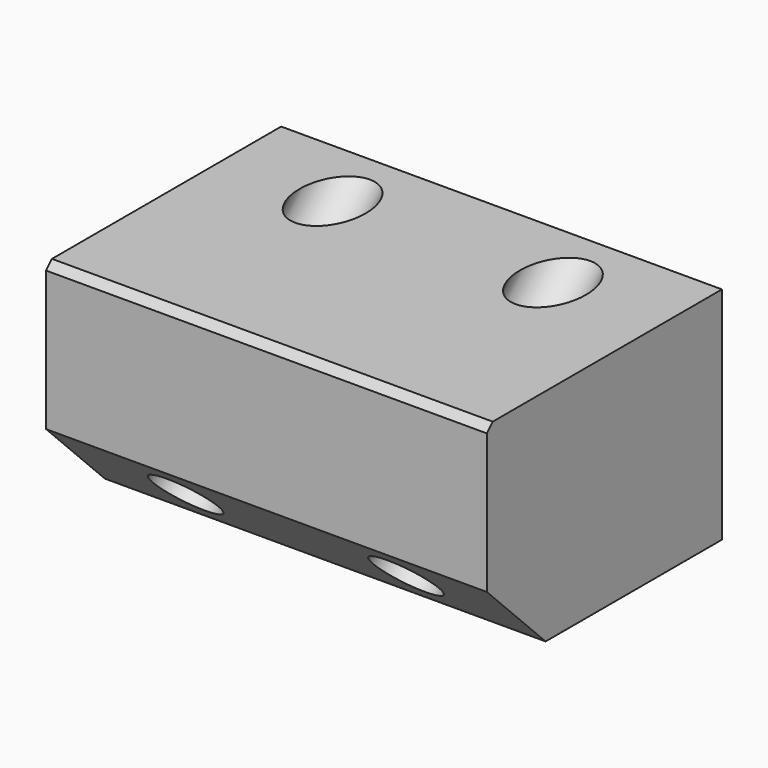
from build123d import *

# Parameters (mm, degrees)
F0_W     = 60
F0_H     = 40
F1_DEPTH = 30
F2_SIZE  = 10
F4_D     = 9
F5_SIZE  = 1


with BuildPart() as f1:
    # F0 (on Top) → F1 (new body)
    with BuildSketch(Plane.XY):
        with Locations((30, 20)):
            Rectangle(F0_W, F0_H)
    extrude(amount=-F1_DEPTH)

    # F2
    f2_edges = [f1.edges().sort_by_distance(p)[0] for p in [
        (30, 0, -30),
    ]]
    chamfer(f2_edges, length=F2_SIZE)

    # F4 (through all)
    with Locations(Plane(origin=(0, -10, -10), x_dir=(1, 0, 0), z_dir=(0, -0.7071067812, -0.7071067812))):
        with Locations((15, -21.2132034356), (45, -21.2132034356)):
            Hole(F4_D / 2)

    # F5
    f5_edges = [f1.edges().sort_by_distance(p)[0] for p in [
        (30, 0, 0),
    ]]
    chamfer(f5_edges, length=F5_SIZE)


solid = f1.part
